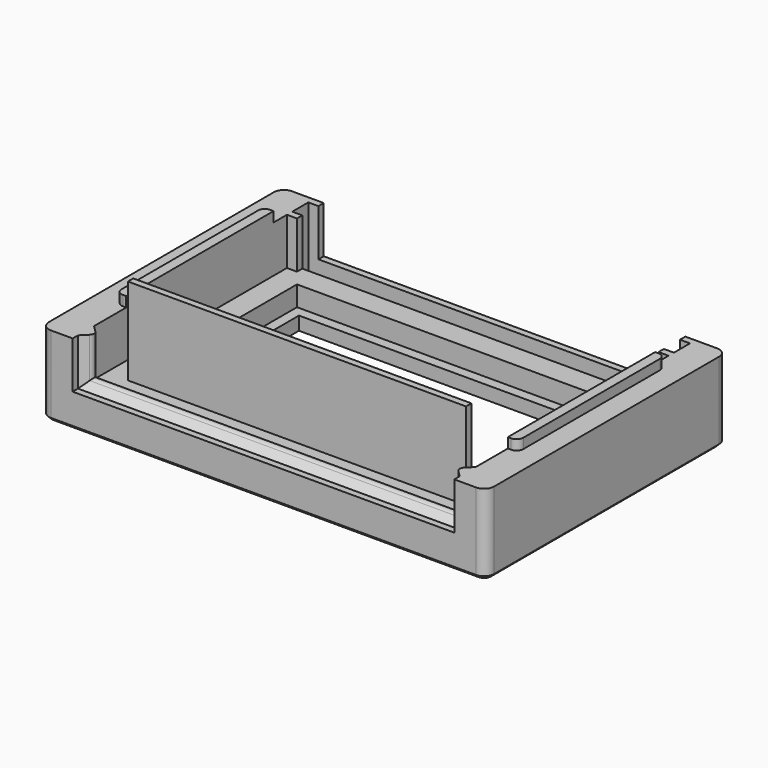
from build123d import *

# Parameters (mm, degrees)
SKETCH_W             = 133
SKETCH_H             = 90
PAD_DEPTH            = 10
PAD001_DEPTH         = 24
PAD002_DEPTH         = 133
SKETCH003_W          = 101
SKETCH003_H          = 2
PAD003_DEPTH         = 36
SKETCH004_W          = 2
SKETCH004_H          = 3
PAD004_DEPTH         = 30
LINEARPATTERN_COUNT  = 6
LINEARPATTERN_PITCH  = 16.6
SKETCH005_W          = 100
SKETCH005_H          = 55
POCKET_DEPTH         = 6
SKETCH006_W          = 94
SKETCH006_H          = 49
POCKET001_DEPTH      = 36.001
SKETCH007_W          = 6
SKETCH007_H          = 6
POCKET002_DEPTH      = 57
POCKET002_DEPTH_BACK = -57
FILLET_R             = 3
FILLET001_R          = 3
CHAMFER_SIZE         = 1
SKETCH008_W          = 3
SKETCH008_H          = 55
PAD005_DEPTH         = 3
FILLET002_R          = 2
FILLET003_R          = 2


with BuildPart() as part:
    # Sketch → Pad (new body)
    with BuildSketch(Plane.XY):
        with Locations((0, 5)):
            Rectangle(SKETCH_W, SKETCH_H)
    extrude(amount=PAD_DEPTH)

    # Sketch001 → Pad001 (join)
    with BuildSketch(Plane.XY):
        with BuildLine():
            Line((-66.5, -40), (-66.5, 50))
            Line((-66.5, 50), (-54, 50))
            Line((-54, 50), (-54, 48))
            Line((-54, 48), (-57, 48))
            Line((-57, 48), (-57, 42))
            Line((-57, 42), (-54, 42))
            Line((-54, 42), (-54, 40))
            Line((-54, 40), (-57, 40))
            Line((-57, 40), (-57, -32))
            Line((-57, -32), (-55.06066, -33.93934))
            ThreePointArc((-55.06066, -36.06066), (-54.62132, -35), (-55.06066, -33.93934))
            Line((-55.06066, -36.06066), (-57, -38))
            Line((-57, -38), (-57, -40))
            Line((-57, -40), (-66.5, -40))
        make_face()
    pad001 = extrude(amount=PAD001_DEPTH)

    # Mirrored: Pad001 across Sketch001 V_Axis
    add(pad001.mirror(Plane(origin=(0, 0, 0), x_dir=(0, 0, 1), z_dir=(1, 0, 0))))

    # Sketch002 (on Face10 of Mirrored) → Pad002 (join)
    with BuildSketch(Plane(origin=(-66.5, 0, 0), x_dir=(0, -1, 0), z_dir=(-1, 0, 0))):
        with BuildLine():
            Line((32, 10), (33.93934, 11.93934))
            ThreePointArc((36.06066, 11.93934), (35, 12.37868), (33.93934, 11.93934))
            Line((36.06066, 11.93934), (38, 10))
            Line((38, 10), (32, 10))
        make_face()
    extrude(amount=-PAD002_DEPTH)

    # Sketch003 → Pad003 (join)
    with BuildSketch(Plane.XY):
        with Locations((0, -26.5)):
            Rectangle(SKETCH003_W, SKETCH003_H)
    extrude(amount=PAD003_DEPTH)

    # Sketch004 → Pad004 (join)
    with BuildSketch(Plane.XY):
        with Locations((41.6, -24.5)):
            Rectangle(SKETCH004_W, SKETCH004_H)
    pad004 = extrude(amount=PAD004_DEPTH)

    # LinearPattern: Pad004 ×6
    with Locations(*[(-i * LINEARPATTERN_PITCH, 0, 0) for i in range(1, LINEARPATTERN_COUNT)]):
        add(pad004)

    # Sketch005 (on Face38 of LinearPattern) → Pocket (cut)
    with BuildSketch(Plane.XY.offset(10)):
        with Locations((0, 7.5)):
            Rectangle(SKETCH005_W, SKETCH005_H)
    extrude(amount=-POCKET_DEPTH, mode=Mode.SUBTRACT)

    # Sketch006 → Pocket001 (cut, through all)
    with BuildSketch(Plane.XY):
        with Locations((0, 7.5)):
            Rectangle(SKETCH006_W, SKETCH006_H)
    extrude(amount=POCKET001_DEPTH, mode=Mode.SUBTRACT)

    # Sketch007 → Pocket002 (cut, two sides)
    with BuildSketch(Plane.YZ) as pocket002_sk:
        with Locations((45, 8)):
            Rectangle(SKETCH007_W, SKETCH007_H)
    extrude(amount=-POCKET002_DEPTH, mode=Mode.SUBTRACT)
    extrude(pocket002_sk.sketch, amount=-POCKET002_DEPTH_BACK, mode=Mode.SUBTRACT)

    # Fillet
    fillet_edges = [part.edges().sort_by_distance(p)[0] for p in [
        (-66.5, -40, 17),
        (-66.5, -40, 5),
        (-66.5, 50, 17),
        (-66.5, 50, 5),
    ]]
    fillet(fillet_edges, radius=FILLET_R)

    # Fillet001
    fillet001_edges = [part.edges().sort_by_distance(p)[0] for p in [
        (66.5, 50, 17),
        (66.5, 50, 5),
        (66.5, -40, 17),
        (66.5, -40, 5),
    ]]
    fillet(fillet001_edges, radius=FILLET001_R)

    # Chamfer
    chamfer_edges = [part.edges().sort_by_distance(p)[0] for p in [
        (66.5, 5, 0),
        (65.62132, 49.12132, 0),
        (58.75, 50, 0),
        (0, 50, 0),
        (-58.75, 50, 0),
        (-65.62132, 49.12132, 0),
        (-66.5, 5, 0),
        (-65.62132, -39.12132, 0),
        (-60.25, -40, 0),
        (0, -40, 0),
        (60.25, -40, 0),
        (65.62132, -39.12132, 0),
    ]]
    chamfer(chamfer_edges, length=CHAMFER_SIZE)

    # Sketch008 (on Face13 of Chamfer) → Pad005 (join)
    with BuildSketch(Plane.XY.offset(24)):
        with Locations((58.5, 7.5)):
            Rectangle(SKETCH008_W, SKETCH008_H)
        with Locations((-58.5, 7.5)):
            Rectangle(SKETCH008_W, SKETCH008_H)
    extrude(amount=PAD005_DEPTH)

    # Fillet002
    fillet002_edges = [part.edges().sort_by_distance(p)[0] for p in [
        (60, -20, 25.5),
        (60, 35, 25.5),
    ]]
    fillet(fillet002_edges, radius=FILLET002_R)

    # Fillet003
    fillet003_edges = [part.edges().sort_by_distance(p)[0] for p in [
        (-60, -20, 25.5),
        (-60, 35, 25.5),
    ]]
    fillet(fillet003_edges, radius=FILLET003_R)


solid = part.part
